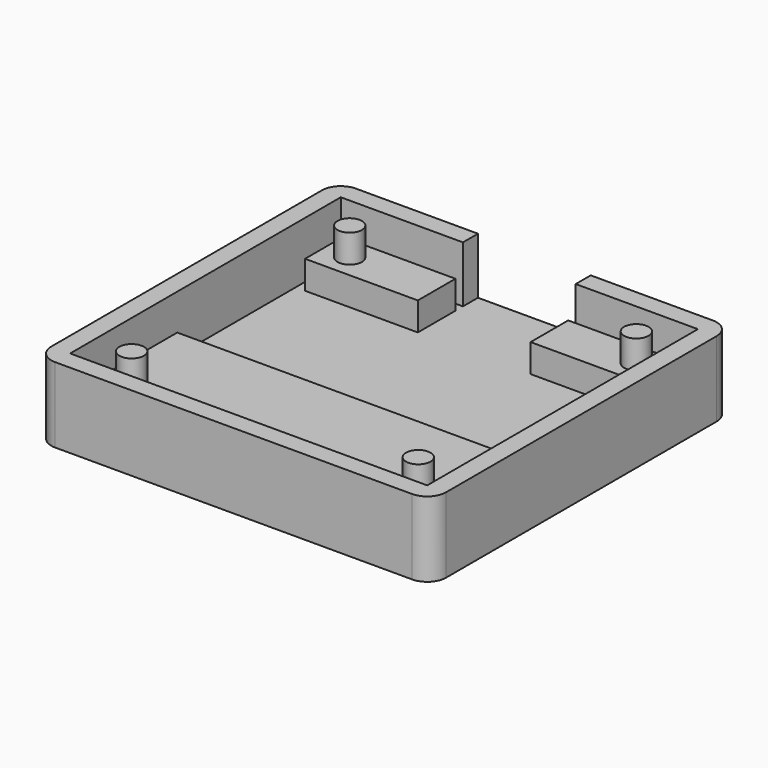
from build123d import *

# Parameters (mm, degrees)
F0_W     = 36
F0_H     = 12
F0_R     = 1.3
F1_DEPTH = 5
F0_W_2   = 12
F0_H_2   = 5
F0_H_3   = 1
F0_H_4   = 2
F2_DEPTH = 2
F3_DEPTH = 8
F4_R     = 2


with BuildPart() as f1:
    # F0 (on Top) → F1 (new body)
    with BuildSketch(Plane.XY):
        with Locations((0, -11)):
            Rectangle(F0_W, F0_H)
        with Locations((-15.25, -14.5)):
            Circle(F0_R, mode=Mode.SUBTRACT)
        with Locations((15.25, -14.5)):
            Circle(F0_R, mode=Mode.SUBTRACT)
    extrude(amount=F1_DEPTH)



with BuildPart() as f1b:
    # F0 (on Top) → F1, piece 2 (new body)
    with BuildSketch(Plane.XY):
        with Locations((-12, 14.5)):
            Rectangle(F0_W_2, F0_H_2)
        with Locations((-15.25, 14.5)):
            Circle(F0_R, mode=Mode.SUBTRACT)
    extrude(amount=F1_DEPTH)


with BuildPart() as f1c:
    # F0 (on Top) → F1, piece 3 (new body)
    with BuildSketch(Plane.XY):
        with Locations((12, 14.5)):
            Rectangle(F0_W_2, F0_H_2)
        with Locations((15.25, 14.5)):
            Circle(F0_R, mode=Mode.SUBTRACT)
    extrude(amount=F1_DEPTH)


with BuildPart() as f1_1:
    add(f1.part)

    add(f1b.part)  # F2 merges F1b

    add(f1c.part)  # F2 merges F1c
    # F0 (on Top) → F2 (join)
    with BuildSketch(Plane.XY):
        Polygon((-6, 12), (-18, 12), (-18, -5), (18, -5), (18, 12), (6, 12), align=None)
        with Locations((0, 14.5)):
            Rectangle(F0_W_2, F0_H_2)
        Polygon((-18, 12), (-18, 17), (-6, 17), (-6, 18), (-19, 18), (-19, -18), (19, -18), (19, 18), (6, 18), (6, 17), (18, 17), (18, 12), (18, -5), (18, -17), (-18, -17), (-18, -5), align=None)
        with Locations((0, 17.5)):
            Rectangle(F0_W_2, F0_H_3)
        with Locations((0, 19)):
            Rectangle(F0_W_2, F0_H_4)
    extrude(amount=F2_DEPTH)

    # F0 (on Top) → F3 (join)
    with BuildSketch(Plane.XY):
        with Locations((-15.25, 14.5)):
            Circle(F0_R)
        with Locations((15.25, 14.5)):
            Circle(F0_R)
        with Locations((15.25, -14.5)):
            Circle(F0_R)
        with Locations((-15.25, -14.5)):
            Circle(F0_R)
        Polygon((-19, 18), (-6, 18), (-6, 20), (-21, 20), (-21, -20), (21, -20), (21, 20), (6, 20), (6, 18), (19, 18), (19, -18), (-19, -18), align=None)
    extrude(amount=F3_DEPTH)

    # F4
    f4_edges = [f1_1.edges().sort_by_distance(p)[0] for p in [
        (-21, -20, 4),
        (21, -20, 4),
        (21, 20, 4),
        (-21, 20, 4),
    ]]
    fillet(f4_edges, radius=F4_R)


solid = f1_1.part
